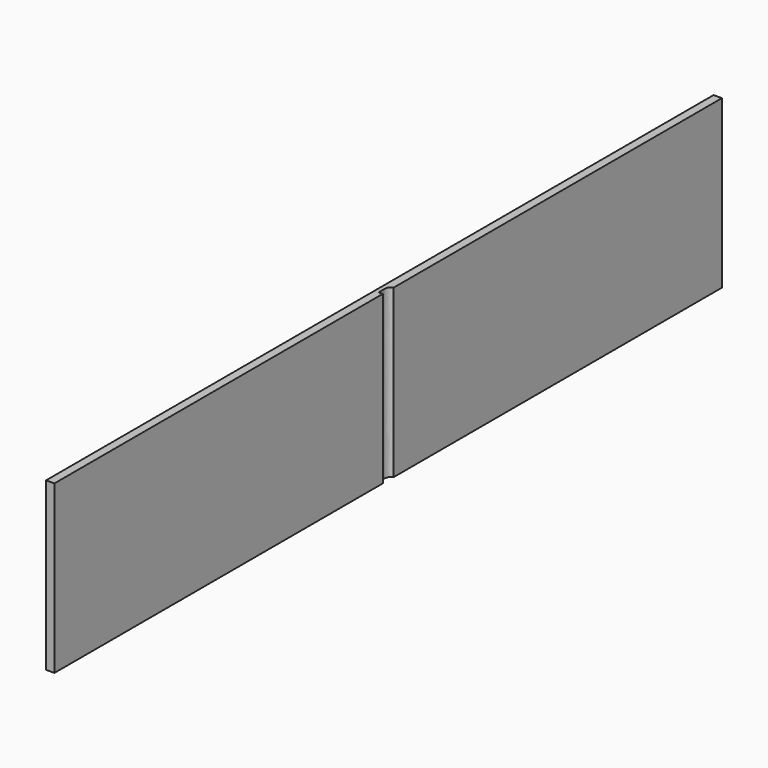
from build123d import *

# Parameters (mm, degrees)
F2_DEPTH = 100


with BuildPart() as f2:
    # F1 (on Top) → F2 (new body)
    with BuildSketch(Plane.XY):
        with BuildLine():
            Line((5, 4.045), (5, 250))
            Line((5, 250), (0, 250))
            Line((0, 250), (0, -250))
            Line((0, -250), (5, -250))
            Line((5, -250), (5, -4.045))
            Line((5, -4.045), (2.5, -4.045))
            Line((2.5, -4.045), (2.5, 0))
            add(Edge.make_bspline(
                [(5, 4.045), (2.5, 4.045), (2.5, 0)],
                knots=[0, 0, 0, 1.5707963268, 1.5707963268, 1.5707963268], degree=2, weights=[1, 0.7071067812, 1]))
        make_face()
    extrude(amount=F2_DEPTH)


solid = f2.part
